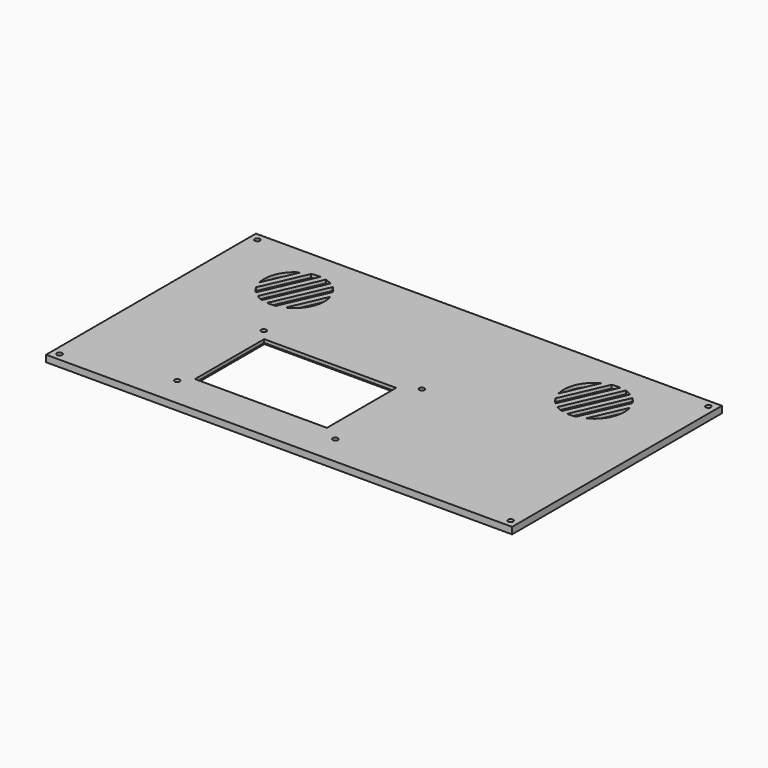
from build123d import *

# Parameters (mm, degrees)
SKETCH015_W     = 157.6
SKETCH015_H     = 280
SKETCH015_R     = 1.55
PAD007_DEPTH    = 4
SKETCH016_R     = 18.25
SKETCH016_W     = 52
SKETCH016_H     = 79.3
POCKET008_DEPTH = 10
SKETCH017_R     = 20.5
SKETCH017_W     = 56.5
SKETCH017_H     = 86.5
POCKET009_DEPTH = 2
PAD008_DEPTH    = 2
SKETCH019_R     = 1.55
POCKET010_DEPTH = 9


with BuildPart() as part:
    # Sketch015 (on ShapeBinder) → Pad007 (new body)
    with BuildSketch(Plane(origin=(0, 0, 46), x_dir=(0, -1, 0), z_dir=(0, 0, 1))):
        with Locations((-72.5, 140)):
            Rectangle(SKETCH015_W, SKETCH015_H)
        with Locations((-146.8, 275.5)):
            Circle(SKETCH015_R, mode=Mode.SUBTRACT)
        with Locations((1.8, 275.5)):
            Circle(SKETCH015_R, mode=Mode.SUBTRACT)
        with Locations((-146.8, 4.5)):
            Circle(SKETCH015_R, mode=Mode.SUBTRACT)
        with Locations((1.8, 4.5)):
            Circle(SKETCH015_R, mode=Mode.SUBTRACT)
    extrude(amount=PAD007_DEPTH)

    # Sketch016 (on Face10 of Pad007) → Pocket008 (cut)
    with BuildSketch(Plane(origin=(0, 0, 50), x_dir=(0, -1, 0), z_dir=(0, 0, 1))):
        with Locations((-117.7, 50)):
            Circle(SKETCH016_R)
        with Locations((-117.7, 230)):
            Circle(SKETCH016_R)
        with Locations((-44, 109.65)):
            Rectangle(SKETCH016_W, SKETCH016_H)
    extrude(amount=-POCKET008_DEPTH, mode=Mode.SUBTRACT)

    # Sketch017 (on Face4 of Pocket008) → Pocket009 (cut)
    with BuildSketch(Plane.YX.offset(-46)):
        with Locations((117.7, 230)):
            Circle(SKETCH017_R)
        with Locations((117.7, 50)):
            Circle(SKETCH017_R)
        with Locations((43.85, 111.75)):
            Rectangle(SKETCH017_W, SKETCH017_H)
    extrude(amount=-POCKET009_DEPTH, mode=Mode.SUBTRACT)

    # Sketch018 (on Face5 of Pocket009) → Pad008 (join)
    with BuildSketch(Plane(origin=(0, 0, 50), x_dir=(0, -1, 0), z_dir=(0, 0, 1))):
        Polygon((-142.58252, 252.331589), (-142.58252, 256.331589), (-92.58252, 234.331589), (-92.58252, 230.331589), align=None)
        Polygon((-142.58252, 243.331589), (-142.58252, 247.331589), (-92.58252, 225.331589), (-92.58252, 221.331589), align=None)
        Polygon((-142.58252, 234.331589), (-142.58252, 238.331589), (-92.58252, 216.331589), (-92.58252, 212.331589), align=None)
        Polygon((-142.58252, 225.331589), (-142.58252, 229.331589), (-92.58252, 207.331589), (-92.58252, 203.331589), align=None)
        Polygon((-142.313179, 71.876823), (-142.313179, 75.876823), (-92.313179, 53.876823), (-92.313179, 49.876823), align=None)
        Polygon((-142.313179, 62.876823), (-142.313179, 66.876823), (-92.313179, 44.876823), (-92.313179, 40.876823), align=None)
        Polygon((-142.313179, 53.876823), (-142.313179, 57.876823), (-92.313179, 35.876823), (-92.313179, 31.876823), align=None)
        Polygon((-142.313179, 44.876823), (-142.313179, 48.876823), (-92.313179, 26.876823), (-92.313179, 22.876823), align=None)
    extrude(amount=-PAD008_DEPTH)

    # Sketch019 (on Face4 of Pad008) → Pocket010 (cut)
    with BuildSketch(Plane.YX.offset(-46)):
        with Locations((11.6, 159.5)):
            Circle(SKETCH019_R)
        with Locations((76.6, 159.5)):
            Circle(SKETCH019_R)
        with Locations((76.6, 64.5)):
            Circle(SKETCH019_R)
        with Locations((11.6, 64.5)):
            Circle(SKETCH019_R)
    extrude(amount=-POCKET010_DEPTH, mode=Mode.SUBTRACT)


solid = part.part
